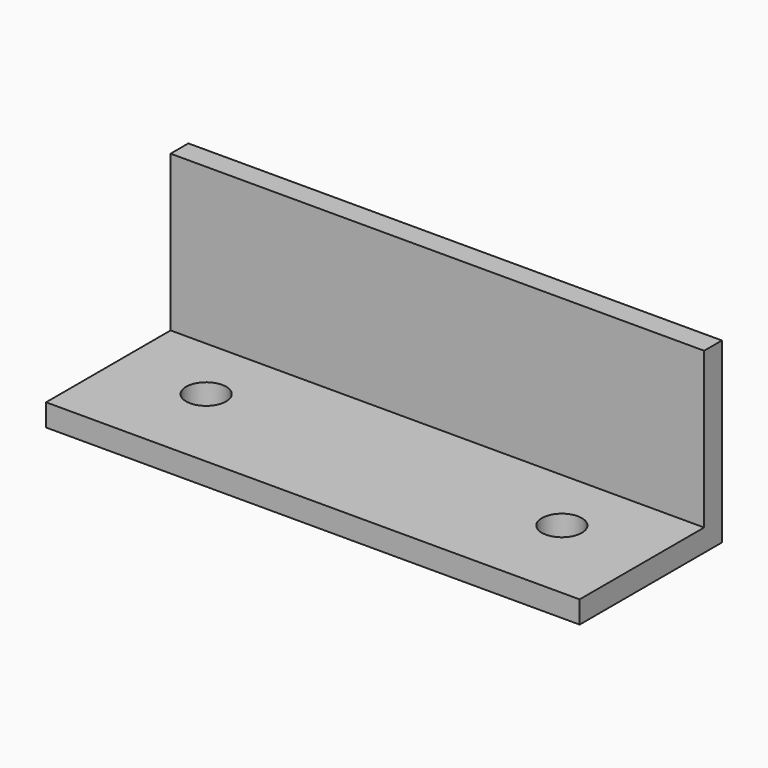
from build123d import *

# Parameters (mm, degrees)
F1_DEPTH = 120
F2_R     = 4.5
F3_DEPTH = 25


with BuildPart() as f1:
    # F0 (on Right) → F1 (new body)
    with BuildSketch(Plane.YZ):
        Polygon((-40, 0), (0, 0), (0, 40), (-5, 40), (-5, 5), (-40, 5), align=None)
    extrude(amount=F1_DEPTH)

    # F2 (on face) → F3 (cut)
    with BuildSketch(Plane(origin=(0, 0, 0), x_dir=(1, 0, 0), z_dir=(0, 0, -1))):
        with Locations((20, 20)):
            Circle(F2_R)
        with Locations((100, 20)):
            Circle(F2_R)
    extrude(amount=-F3_DEPTH, mode=Mode.SUBTRACT)


solid = f1.part
